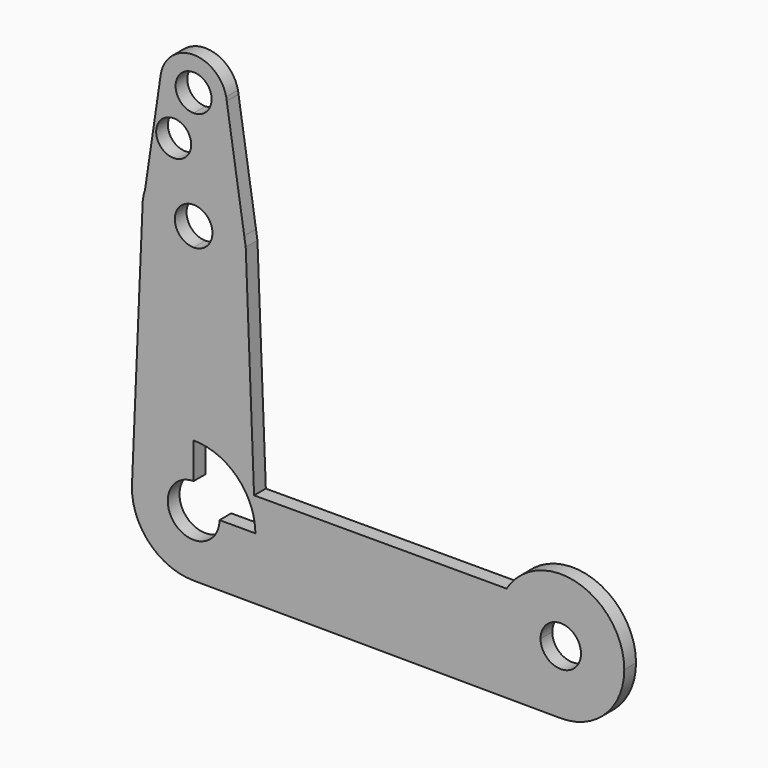
from build123d import *

# Parameters (mm, degrees)
F1_DEPTH = 3.048


with BuildPart() as f1:
    # F0 (on Front) → F1 (new body)
    with BuildSketch(Plane.XZ):
        with BuildLine():
            ThreePointArc((-2.3527241569, 69.8537035021), (-1.1943292871, 69.5449083108), (0, 69.4409338017))
            ThreePointArc((0, 69.4409338017), (4.8871464325, 71.4652561353), (6.9114687662, 76.3524025679))
            ThreePointArc((6.9114687662, 76.3524025679), (6.9028664764, 76.6971269716), (6.8770810207, 77.0409932599))
            Line((6.8770810207, 77.0409932599), (6.7632309005, 77.7761681006))
            ThreePointArc((6.7632309005, 77.7761681006), (-0.2117687113, 83.2606262555), (-6.8377398972, 77.3592360224))
            ThreePointArc((-6.8377398972, 77.3592360224), (-6.1254511142, 73.151270088), (-3.077496853, 70.1639121521))
            ThreePointArc((-3.077496853, 70.1639121521), (-2.7066762622, 70.0285136245), (-2.3527241569, 69.8537035021))
        make_face()
        with BuildLine():
            ThreePointArc((3.7392241418, 76.3524025679), (2.6440307471, 73.7083718208), (0, 72.613178426))
            ThreePointArc((0, 72.613178426), (-2.6440307471, 78.9964333149), (3.7392241418, 76.3524025679))
        make_face(mode=Mode.SUBTRACT)
        with BuildLine():
            ThreePointArc((6.9114687662, 76.3524025679), (4.8871464325, 71.4652561353), (0, 69.4409338017))
            Line((0, 69.4409338017), (0, 62.6015082461))
            ThreePointArc((0, 62.6015082461), (6.9195435777, 60.0419934094), (10.507855478, 53.5956597825))
            Line((10.507855478, 53.5956597825), (6.8770810207, 77.0409932599))
            ThreePointArc((6.8770810207, 77.0409932599), (6.9028664764, 76.6971269716), (6.9114687662, 76.3524025679))
        make_face()
        with BuildLine():
            Line((0, 62.6015082461), (0, 69.4409338017))
            ThreePointArc((0, 69.4409338017), (-1.1943292871, 69.5449083108), (-2.3527241569, 69.8537035021))
            ThreePointArc((-2.3527241569, 69.8537035021), (-0.9984986758, 68.5207092305), (-0.501855911, 66.6865482926))
            ThreePointArc((-0.501855911, 66.6865482926), (-7.0582370296, 64.5228716952), (-3.077496853, 70.1639121521))
            ThreePointArc((-3.077496853, 70.1639121521), (-6.1254511142, 73.151270088), (-6.8377398972, 77.3592360224))
            Line((-6.8377398972, 77.3592360224), (-10.0765462506, 55.3634279539))
            ThreePointArc((-10.0765462506, 55.3634279539), (-6.2033577734, 60.6044491873), (0, 62.6015082461))
        make_face()
        with BuildLine():
            ThreePointArc((10.507855478, 53.5956597825), (6.9195435777, 60.0419934094), (0, 62.6015082461))
            Line((0, 62.6015082461), (0, 55.8700727761))
            ThreePointArc((0, 55.8700727761), (2.7588996773, 54.7272991125), (3.9016733408, 51.9683994353))
            ThreePointArc((3.9016733408, 51.9683994353), (2.7588996773, 49.209499758), (0, 48.0667260945))
            Line((0, 48.0667260945), (0, 41.3352906244))
            ThreePointArc((0, 41.3352906244), (7.5187433452, 44.44965609), (10.6331088108, 51.9683994353))
            ThreePointArc((10.6331088108, 51.9683994353), (10.6017492342, 52.7844362964), (10.507855478, 53.5956597825))
        make_face()
        with BuildLine():
            Line((0, 55.8700727761), (0, 62.6015082461))
            ThreePointArc((0, 62.6015082461), (-6.2033577734, 60.6044491873), (-10.0765462506, 55.3634279539))
            Line((-10.0765462506, 55.3634279539), (-10.6274637526, 51.621964491))
            ThreePointArc((-10.6274637526, 51.621964491), (-7.3952458555, 44.3281545622), (0, 41.3352906244))
            Line((0, 41.3352906244), (0, 48.0667260945))
            ThreePointArc((0, 48.0667260945), (-3.9016733408, 51.9683994353), (0, 55.8700727761))
        make_face()
        with BuildLine():
            Line((10.813504466, 51.621964491), (10.507855478, 53.5956597825))
            ThreePointArc((10.507855478, 53.5956597825), (10.6017492342, 52.7844362964), (10.6331088108, 51.9683994353))
            ThreePointArc((10.6331088108, 51.9683994353), (7.5187433452, 44.44965609), (0, 41.3352906244))
            Line((0, 41.3352906244), (0, 12.8025058683))
            ThreePointArc((0, 12.8025058683), (6.170919175, 11.2171258815), (10.813504466, 6.8536324436))
            Line((10.813504466, 6.8536324436), (12.5467524545, 6.8536324436))
            Line((12.5467524545, 6.8536324436), (10.813504466, 51.621964491))
        make_face()
        with BuildLine():
            Line((-10.6274637526, 51.621964491), (-10.0765462506, 55.3634279539))
            ThreePointArc((-10.0765462506, 55.3634279539), (-10.5196789288, 53.517385626), (-10.6274637526, 51.621964491))
        make_face()
        with BuildLine():
            Line((6.7632309005, 77.7761681006), (6.8770810207, 77.0409932599))
            ThreePointArc((6.8770810207, 77.0409932599), (6.8300547464, 77.4101136189), (6.7632309005, 77.7761681006))
        make_face()
        with BuildLine():
            ThreePointArc((0, 41.3352906244), (-7.3952458555, 44.3281545622), (-10.6274637526, 51.621964491))
            Line((-10.6274637526, 51.621964491), (-12.7910370323, 0.5417823786))
            ThreePointArc((-12.7910370323, 0.5417823786), (-8.8591191556, 9.2423029757), (0, 12.8025058683))
            Line((0, 12.8025058683), (0, 41.3352906244))
        make_face()
        with BuildLine():
            Line((64.9444829711, 6.8536324436), (12.5467524545, 6.8536324436))
            Line((12.5467524545, 6.8536324436), (12.7929216491, 0.4952900025))
            Line((12.7929216491, 0.4952900025), (12.8120972664, 0))
            Line((12.8120972664, 0), (63.0220283185, 0))
            ThreePointArc((63.0220283185, 0), (63.5117412081, 3.559076761), (64.9444829711, 6.8536324436))
        make_face()
        with BuildLine():
            Line((12.7929216491, 0.4952900025), (12.5467524545, 6.8536324436))
            Line((12.5467524545, 6.8536324436), (10.813504466, 6.8536324436))
            ThreePointArc((10.813504466, 6.8536324436), (12.2238687874, 3.805415664), (12.7929216491, 0.4952900025))
        make_face()
        with BuildLine():
            ThreePointArc((0, 12.8025058683), (-8.8591191556, 9.2423029757), (-12.7910370323, 0.5417823786))
            ThreePointArc((-12.7910370323, 0.5417823786), (-9.2423029757, -8.8591191556), (0, -12.8025058683))
            ThreePointArc((0, -12.8025058683), (9.0527387156, -9.0527387156), (12.8025058683, 0))
            Line((12.8025058683, 0), (5.3693237109, 0))
            ThreePointArc((5.3693237109, 0), (-3.7966852063, -3.7966852063), (0, 5.3693237109))
            Line((0, 5.3693237109), (0, 12.8025058683))
        make_face()
        with BuildLine():
            ThreePointArc((89.377973565, 0), (79.7590777028, 12.6882597336), (64.9444829711, 6.8536324436))
            ThreePointArc((64.9444829711, 6.8536324436), (63.5117412081, 3.559076761), (63.0220283185, 0))
            ThreePointArc((63.0220283185, 0), (66.8588285971, -9.2952386568), (76.1350410947, -13.1778125149))
            ThreePointArc((76.1350410947, -13.1778125149), (85.4952395985, -9.3411723446), (89.377973565, 0))
        make_face()
        with BuildLine():
            ThreePointArc((80.3977112413, 0), (76.2000009418, -4.1977102995), (72.0022906422, 0))
            ThreePointArc((72.0022906422, 0), (76.2000009418, 4.1977102995), (80.3977112413, 0))
        make_face(mode=Mode.SUBTRACT)
        with BuildLine():
            ThreePointArc((12.8025058683, 0), (9.0527387156, -9.0527387156), (0, -12.8025058683))
            Line((0, -12.8025058683), (76.1350410947, -13.1778125149))
            ThreePointArc((76.1350410947, -13.1778125149), (66.8588285971, -9.2952386568), (63.0220283185, 0))
            Line((63.0220283185, 0), (12.8120972664, 0))
            Line((12.8120972664, 0), (12.8025058683, 0))
        make_face()
    extrude(amount=F1_DEPTH)


solid = f1.part
